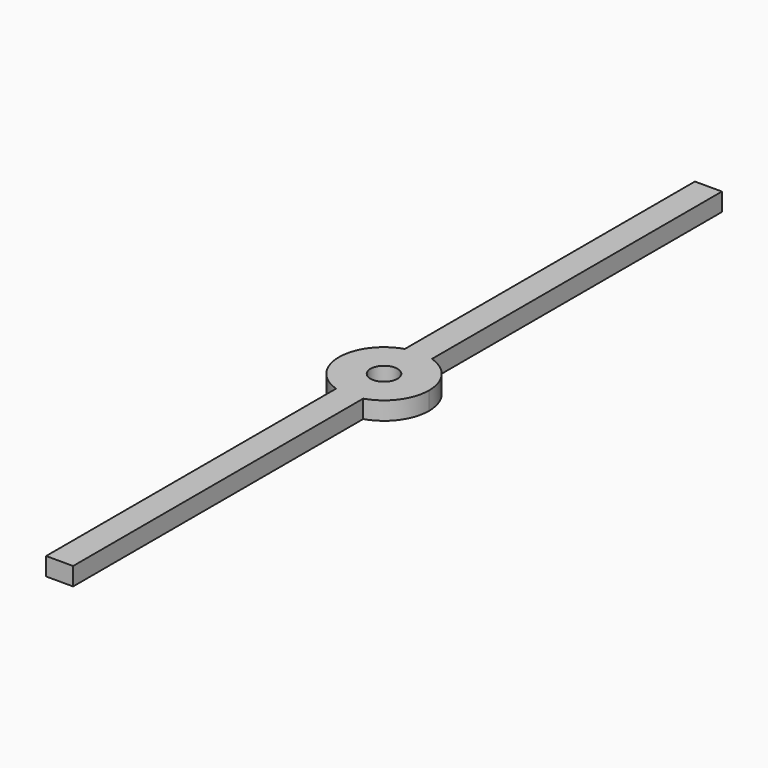
from build123d import *

# Parameters (mm, degrees)
F1_DEPTH = 2
F2_R     = 1.5
F3_DEPTH = 25


with BuildPart() as f1:
    # F0 (on Top) → F1 (new body)
    with BuildSketch(Plane.XY):
        with BuildLine():
            ThreePointArc((1.5, -4.769696), (4.031129, -2.95804), (5, 0))
            ThreePointArc((5, 0), (4.031129, 2.95804), (1.5, 4.769696))
            ThreePointArc((1.5, 4.769696), (0.758788, 4.942089), (0, 5))
            ThreePointArc((0, 5), (-0.758788, 4.942089), (-1.5, 4.769696))
            ThreePointArc((-1.5, 4.769696), (-5, 0), (-1.5, -4.769696))
            ThreePointArc((-1.5, -4.769696), (0, -5), (1.5, -4.769696))
        make_face()
        with BuildLine():
            ThreePointArc((0, 5), (0.758788, 4.942089), (1.5, 4.769696))
            Line((1.5, 4.769696), (1.5, 45))
            Line((1.5, 45), (0, 45))
            Line((0, 45), (0, 5))
        make_face()
        with BuildLine():
            Line((1.5, -45), (1.5, -4.769696))
            ThreePointArc((1.5, -4.769696), (0, -5), (-1.5, -4.769696))
            Line((-1.5, -4.769696), (-1.5, -45))
            Line((-1.5, -45), (0, -45))
            Line((0, -45), (1.5, -45))
        make_face()
        with BuildLine():
            ThreePointArc((-1.5, 4.769696), (-0.758788, 4.942089), (0, 5))
            Line((0, 5), (0, 45))
            Line((0, 45), (-1.5, 45))
            Line((-1.5, 45), (-1.5, 4.769696))
        make_face()
    extrude(amount=F1_DEPTH)

    # F2 (on face) → F3 (cut)
    with BuildSketch(Plane.XY.offset(2)):
        Circle(F2_R)
    extrude(amount=-F3_DEPTH, mode=Mode.SUBTRACT)


solid = f1.part
